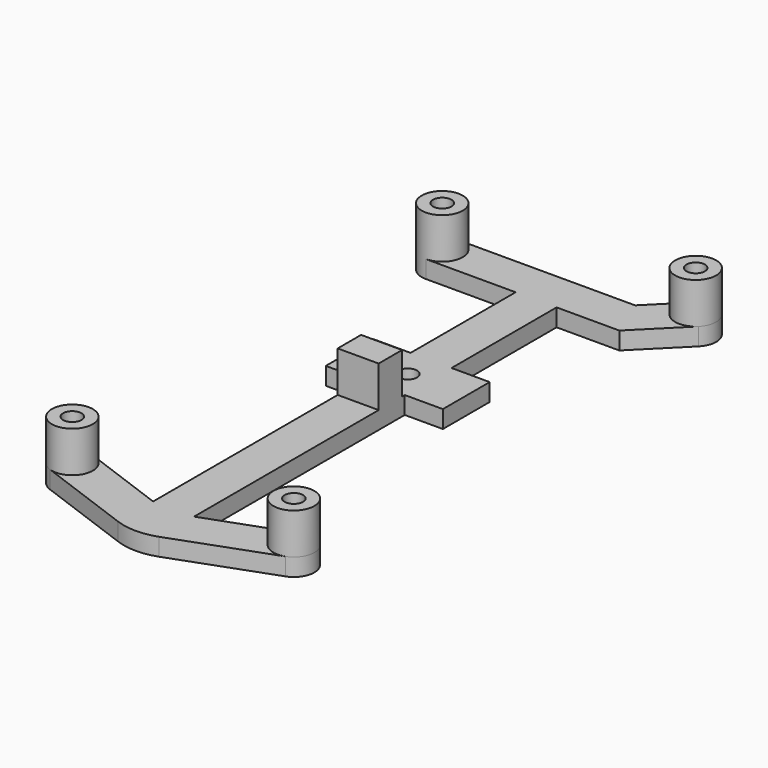
from build123d import *

# Parameters (mm, degrees)
F1_R     = 1.575
F1_R_2   = 1.6
F2_DEPTH = 3
F3_R     = 3.5
F3_R_2   = 1.575
F3_W     = 7
F3_H     = 5
F4_DEPTH = 7


with BuildPart() as f2:
    # F1 (on Top) → F2 (new body)
    with BuildSketch(Plane.XY):
        with BuildLine():
            Line((41.775126, 97.974874), (36.300253, 92.5))
            Line((36.300253, 92.5), (6.15, 92.5))
            ThreePointArc((6.15, 92.5), (2.65, 89), (6.15, 85.5))
            Line((6.15, 85.5), (21.486083, 85.5))
            Line((21.486083, 85.5), (21.486083, 63.069943))
            Line((21.486083, 63.069943), (15, 63.069943))
            Line((15, 63.069943), (15, 53.069943))
            Line((15, 53.069943), (21.486083, 53.069943))
            Line((21.486083, 53.069943), (21.486083, 8.085158))
            Line((21.486083, 8.085158), (7.358881, 13.284602))
            ThreePointArc((7.358881, 13.284602), (2.865398, 11.208881), (4.941119, 6.715398))
            Line((4.941119, 6.715398), (21.486083, 0.62611))
            ThreePointArc((21.486083, 0.62611), (24.985178, 1.1e-05), (28.486083, 0.615912))
            Line((28.486083, 0.615912), (45.199305, 6.71189))
            ThreePointArc((45.199305, 6.71189), (47.288781, 11.197464), (42.804378, 13.289451))
            Line((42.804378, 13.289451), (28.486083, 8.085158))
            Line((28.486083, 8.085158), (28.486083, 53.069943))
            Line((28.486083, 53.069943), (35, 53.069943))
            Line((35, 53.069943), (35, 63.069943))
            Line((35, 63.069943), (28.486083, 63.069943))
            Line((28.486083, 63.069943), (28.486083, 85.5))
            Line((28.486083, 85.5), (39.199747, 85.5))
            Line((39.199747, 85.5), (46.724874, 93.025126))
            ThreePointArc((46.724874, 93.025126), (46.724874, 97.974874), (41.775126, 97.974874))
        make_face()
        with Locations((6.15, 10)):
            Circle(F1_R, mode=Mode.SUBTRACT)
        with Locations((25, 3.069943)):
            Circle(F1_R_2, mode=Mode.SUBTRACT)
        with Locations((44, 10)):
            Circle(F1_R, mode=Mode.SUBTRACT)
        with Locations((25, 58.069943)):
            Circle(F1_R_2, mode=Mode.SUBTRACT)
        with Locations((6.15, 89)):
            Circle(F1_R, mode=Mode.SUBTRACT)
        with Locations((44.25, 95.5)):
            Circle(F1_R, mode=Mode.SUBTRACT)
    extrude(amount=F2_DEPTH)

    # F3 (on face) → F4 (join)
    with BuildSketch(Plane.XY.offset(3)):
        with Locations((6.15, 10)):
            Circle(F3_R)
        with Locations((6.15, 10)):
            Circle(F3_R_2, mode=Mode.SUBTRACT)
        with Locations((6.15, 89)):
            Circle(F3_R)
        with Locations((6.15, 89)):
            Circle(F3_R_2, mode=Mode.SUBTRACT)
        with Locations((44.25, 95.5)):
            Circle(F3_R)
        with Locations((44.25, 95.5)):
            Circle(F3_R_2, mode=Mode.SUBTRACT)
        with Locations((44, 10)):
            Circle(F3_R)
        with Locations((44, 10)):
            Circle(F3_R_2, mode=Mode.SUBTRACT)
        with Locations((24.986083, 50)):
            Rectangle(F3_W, F3_H)
    extrude(amount=F4_DEPTH)


solid = f2.part
